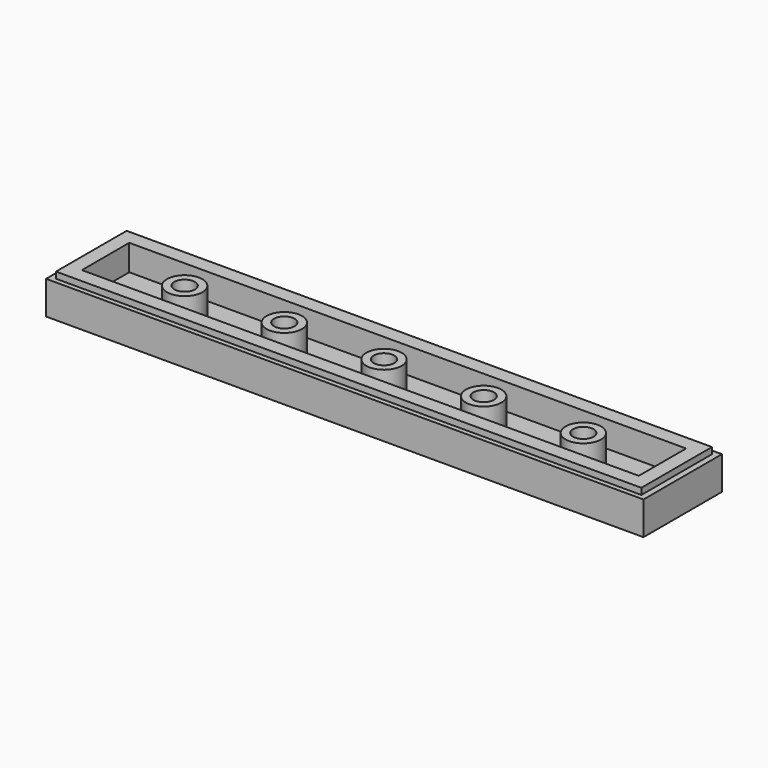
from build123d import *

# Parameters (mm, degrees)
F0_W     = 47.9552
F0_H     = 7.874
F1_DEPTH = 3.175
F2_W     = 44.704
F2_H     = 4.7498
F2_R     = 1.4224
F3_DEPTH = 2.0828
F2_R_2   = 0.8255
F4_DEPTH = 2.0828
F5_W     = 49.073476
F5_H     = 9.354642
F5_W_2   = 46.99
F5_H_2   = 7.0866
F6_DEPTH = 0.508


with BuildPart() as f1:
    # F0 (on Top) → F1 (new body)
    with BuildSketch(Plane.XY):
        Rectangle(F0_W, F0_H)
    extrude(amount=F1_DEPTH)

    # F2 (on face) → F3 (cut)
    with BuildSketch(Plane.XY.offset(3.175)):
        Rectangle(F2_W, F2_H)
        with Locations((-16.002, 0)):
            Circle(F2_R, mode=Mode.SUBTRACT)
        with Locations((-8.001, 0)):
            Circle(F2_R, mode=Mode.SUBTRACT)
        Circle(F2_R, mode=Mode.SUBTRACT)
        with Locations((8.001, 0)):
            Circle(F2_R, mode=Mode.SUBTRACT)
        with Locations((16.002, 0)):
            Circle(F2_R, mode=Mode.SUBTRACT)
    extrude(amount=-F3_DEPTH, mode=Mode.SUBTRACT)

    # F2 (on face) → F4 (cut)
    with BuildSketch(Plane.XY.offset(3.175)):
        with Locations((16.002, 0)):
            Circle(F2_R_2)
        with Locations((8.001, 0)):
            Circle(F2_R_2)
        with Locations((-8.001, 0)):
            Circle(F2_R_2)
        Circle(F2_R_2)
        with Locations((-16.002, 0)):
            Circle(F2_R_2)
    extrude(amount=-F4_DEPTH, mode=Mode.SUBTRACT)

    # F5 (on face) → F6 (cut)
    with BuildSketch(Plane.XY.offset(3.175)):
        Rectangle(F5_W, F5_H)
        Rectangle(F5_W_2, F5_H_2, mode=Mode.SUBTRACT)
    extrude(amount=-F6_DEPTH, mode=Mode.SUBTRACT)


solid = f1.part
